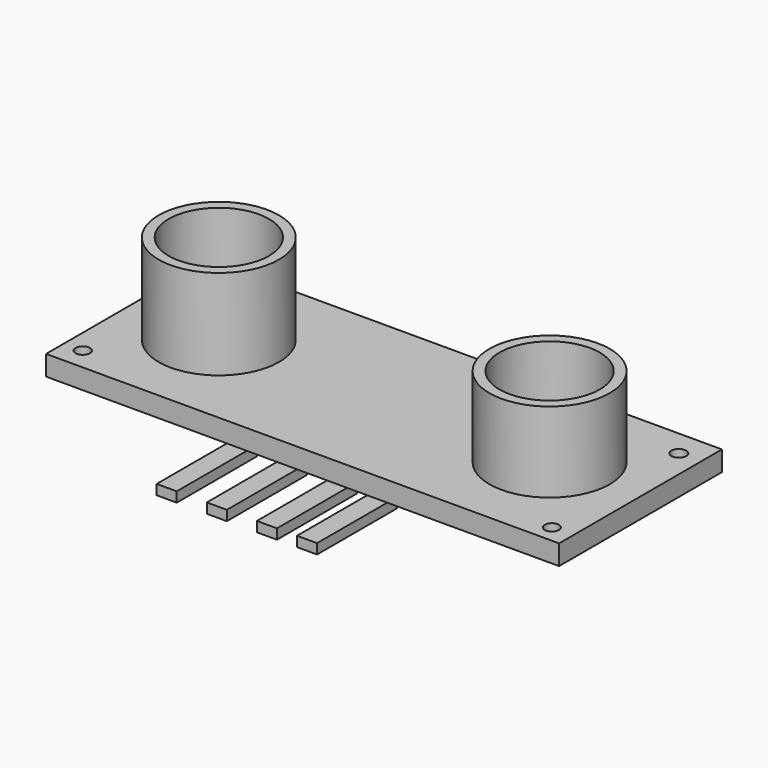
from build123d import *

# Parameters (mm, degrees)
SKETCH_W      = 51.182196
SKETCH_H      = 20.305982
SKETCH_R      = 0.698514
SKETCH_R_2    = 0.740892
SKETCH_R_3    = 0.707187
SKETCH_R_4    = 0.720017
PAD_DEPTH     = 2
TUBE_R        = 6
TUBE_R_2      = 5
TUBE_DEPTH    = 10
TUBE001_R     = 6
TUBE001_R_2   = 5
TUBE001_DEPTH = 10
BOX_W         = 2
BOX_H         = 10
BOX_DEPTH     = 1
BOX001_W      = 2
BOX001_H      = 10
BOX001_DEPTH  = 1
BOX002_W      = 2
BOX002_H      = 10
BOX002_DEPTH  = 1
BOX003_W      = 2
BOX003_H      = 10
BOX003_DEPTH  = 1


with BuildPart() as body:
    # Sketch → Pad (new body)
    with BuildSketch(Plane.XY):
        with Locations((0.556327, 0.904034)):
            Rectangle(SKETCH_W, SKETCH_H)
        with Locations((-23.071247, 8.825307)):
            Circle(SKETCH_R, mode=Mode.SUBTRACT)
        with Locations((23.942686, 8.434824)):
            Circle(SKETCH_R_2, mode=Mode.SUBTRACT)
        with Locations((24.020786, -7.496809)):
            Circle(SKETCH_R_3, mode=Mode.SUBTRACT)
        with Locations((-23.149347, -7.02823)):
            Circle(SKETCH_R_4, mode=Mode.SUBTRACT)
    extrude(amount=PAD_DEPTH)


with BuildPart() as cilindro1:
    # Tube → Tube (new body)
    with BuildSketch(Plane(origin=(-16, 1, 1), x_dir=(1, 0, 0), z_dir=(0, 0, 1))):
        Circle(TUBE_R)
        Circle(TUBE_R_2, mode=Mode.SUBTRACT)
    extrude(amount=TUBE_DEPTH)


with BuildPart() as cilindro2:
    # Tube001 → Tube001 (new body)
    with BuildSketch(Plane(origin=(17, 1, 0), x_dir=(1, 0, 0), z_dir=(0, 0, 1))):
        Circle(TUBE001_R)
        Circle(TUBE001_R_2, mode=Mode.SUBTRACT)
    extrude(amount=TUBE001_DEPTH)


with BuildPart() as obj1:
    # Box → Box (new body)
    with BuildSketch(Plane(origin=(-7, -18, -1), x_dir=(1, 0, 0), z_dir=(0, 0, 1))):
        with Locations((1, 5)):
            Rectangle(BOX_W, BOX_H)
    extrude(amount=BOX_DEPTH)


with BuildPart() as obj2:
    # Box001 → Box001 (new body)
    with BuildSketch(Plane(origin=(-2, -18, -1), x_dir=(1, 0, 0), z_dir=(0, 0, 1))):
        with Locations((1, 5)):
            Rectangle(BOX001_W, BOX001_H)
    extrude(amount=BOX001_DEPTH)


with BuildPart() as obj3:
    # Box002 → Box002 (new body)
    with BuildSketch(Plane(origin=(3, -18, -1), x_dir=(1, 0, 0), z_dir=(0, 0, 1))):
        with Locations((1, 5)):
            Rectangle(BOX002_W, BOX002_H)
    extrude(amount=BOX002_DEPTH)


with BuildPart() as obj4:
    # Box003 → Box003 (new body)
    with BuildSketch(Plane(origin=(7, -18, -1), x_dir=(1, 0, 0), z_dir=(0, 0, 1))):
        with Locations((1, 5)):
            Rectangle(BOX003_W, BOX003_H)
    extrude(amount=BOX003_DEPTH)


solid = Compound([body.part, cilindro1.part, cilindro2.part, obj1.part, obj2.part, obj3.part, obj4.part])
